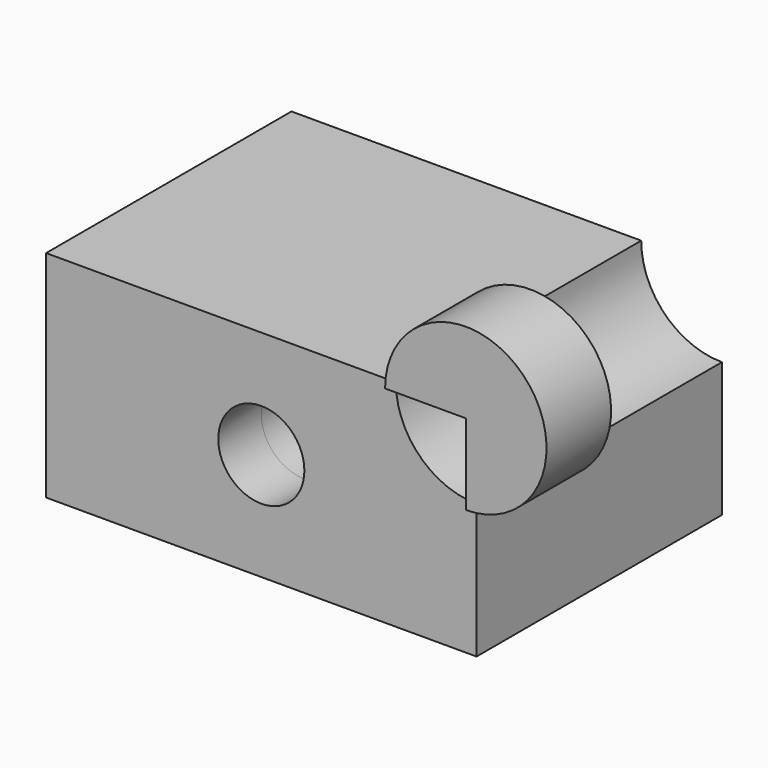
from build123d import *

# Parameters (mm, degrees)
F0_R     = 40
F1_DEPTH = 25
F2_DEPTH = 285
F3_DEPTH = 37.5


with BuildPart() as f1:
    # F0 (on Front) → F1 (new body, symmetric)
    with BuildSketch(Plane.XZ):
        with BuildLine():
            Line((-200, 100), (-200, -100))
            Line((-200, -100), (200, -100))
            Line((200, -100), (200, 25))
            ThreePointArc((200, 25), (146.966991411, 46.966991411), (125, 100))
            Line((125, 100), (-200, 100))
        make_face()
        Circle(F0_R, mode=Mode.SUBTRACT)
    extrude(amount=F1_DEPTH, both=True)

    # F2 (add): a face of the model
    f2_faces = [f1.faces().sort_by_distance(p)[0] for p in [
        (143.8047137508, -25, 43.8047137508),
    ]]
    extrude(f2_faces, amount=-F2_DEPTH)


with BuildPart() as f3:
    # F0 (on Front) → F3 (new body, symmetric)
    with BuildSketch(Plane.XZ):
        with BuildLine():
            Line((200, 100), (200, 25))
            ThreePointArc((200, 25), (253.033008589, 46.966991411), (275, 100))
            ThreePointArc((275, 100), (253.8200708687, 152.2340882153), (202.2426674217, 174.9664621203))
            ThreePointArc((202.2426674217, 174.9664621203), (147.7659117847, 153.8200708687), (125, 100))
            Line((125, 100), (200, 100))
        make_face()
    extrude(amount=F3_DEPTH, both=True)


solid = Compound([f1.part, f3.part])
